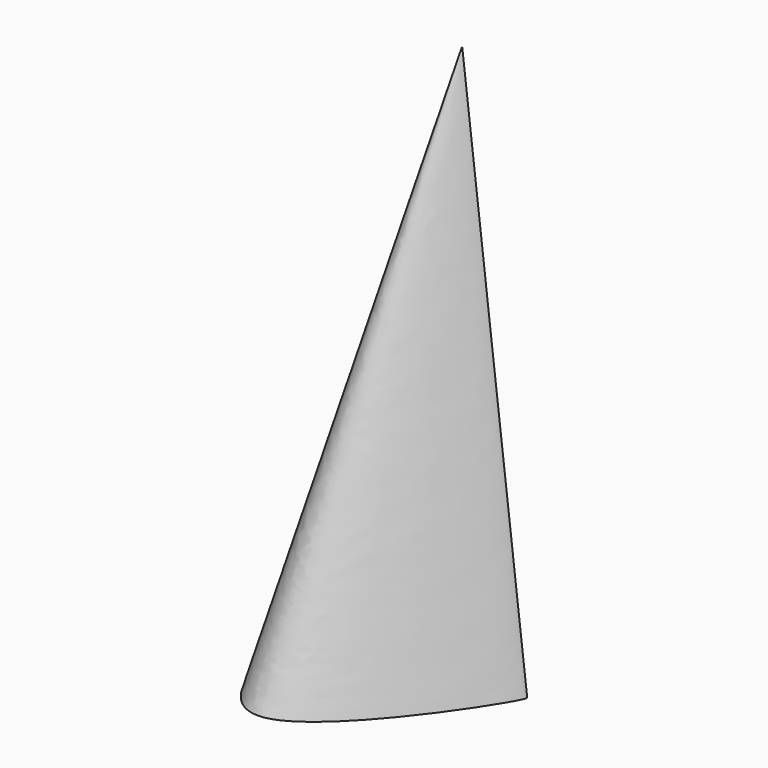
from build123d import *


with BuildPart() as f3:
    # F0 (on Top) → F3 section 0
    with BuildSketch(Plane.XY, mode=Mode.PRIVATE) as f3_s0:
        with BuildLine():
            add(Edge.make_bspline(
                [(-57.7920936048, 7.4684172869), (-57.8200844017, 26.4324749336), (-45.0701948735, 59.6420175132), (-21.8039921135, -19.6978560309), (35.953620921, 26.7745204826), (40.0727373749, 25.5417469613), (-33.5684308034, -90.3070842589), (-57.7544458948, -18.0382999727), (-57.7920936048, 7.4684172869)],
                knots=[0, 0, 0, 0, 0.1514627863, 0.3280988049, 0.5201293187, 0.5410628826, 0.7962820754, 1, 1, 1, 1], degree=3))
        make_face()
    loft([f3_s0.sketch, Vertex(1.1053628987, 33.766258508, 254)])


solid = f3.part
